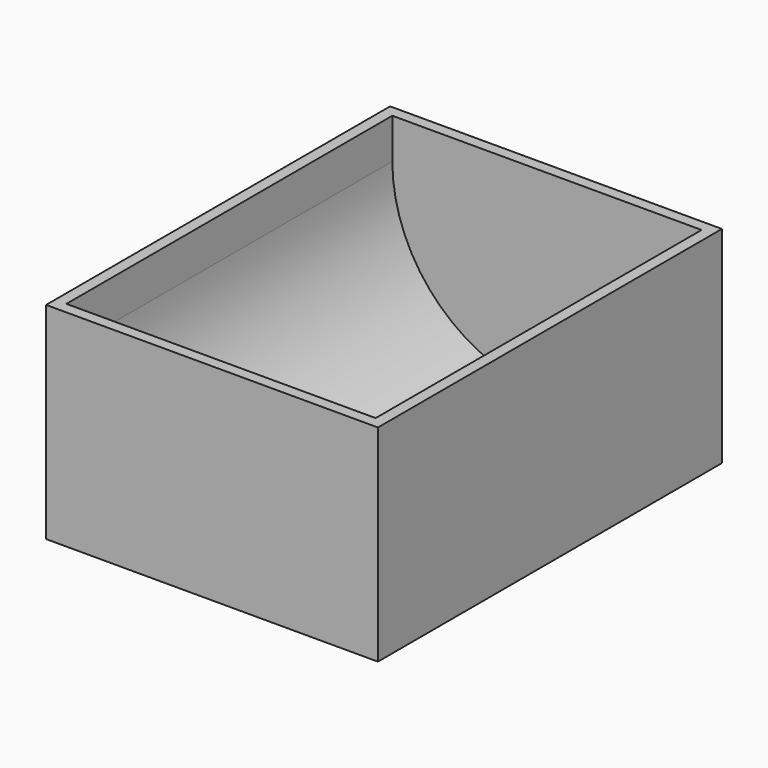
from build123d import *

# Parameters (mm, degrees)
F2_W          = 49.36
F2_H          = 30.6666666667
F4_DEPTH      = 62.28
F4_DEPTH_BACK = 1.68
F5_DEPTH      = 60.6


with BuildPart() as f4:
    # F2 (on Front) → F4 (new body, two sides)
    with BuildSketch(Plane.XZ) as f4_sk:
        with Locations((0, -9.3466666667)):
            Rectangle(F2_W, F2_H)
    extrude(amount=-F4_DEPTH)
    extrude(f4_sk.sketch, amount=F4_DEPTH_BACK)

    # F3 (on Front) → F5 (cut)
    with BuildSketch(Plane.XZ):
        with BuildLine():
            Line((23, 0), (-23, 0))
            ThreePointArc((-23, 0), (0, -23), (23, 0))
        make_face()
        with BuildLine():
            Line((-23, 23), (-23, 0))
            ThreePointArc((-23, 0), (-16.2634559673, 16.2634559673), (0, 23))
            Line((0, 23), (-23, 23))
        make_face()
        with BuildLine():
            ThreePointArc((0, 23), (-16.2634559673, 16.2634559673), (-23, 0))
            Line((-23, 0), (23, 0))
            ThreePointArc((23, 0), (16.2634559673, 16.2634559673), (0, 23))
        make_face()
        with BuildLine():
            ThreePointArc((0, 23), (16.2634559673, 16.2634559673), (23, 0))
            Line((23, 0), (23, 23))
            Line((23, 23), (0, 23))
        make_face()
    extrude(amount=-F5_DEPTH, mode=Mode.SUBTRACT)


solid = f4.part
